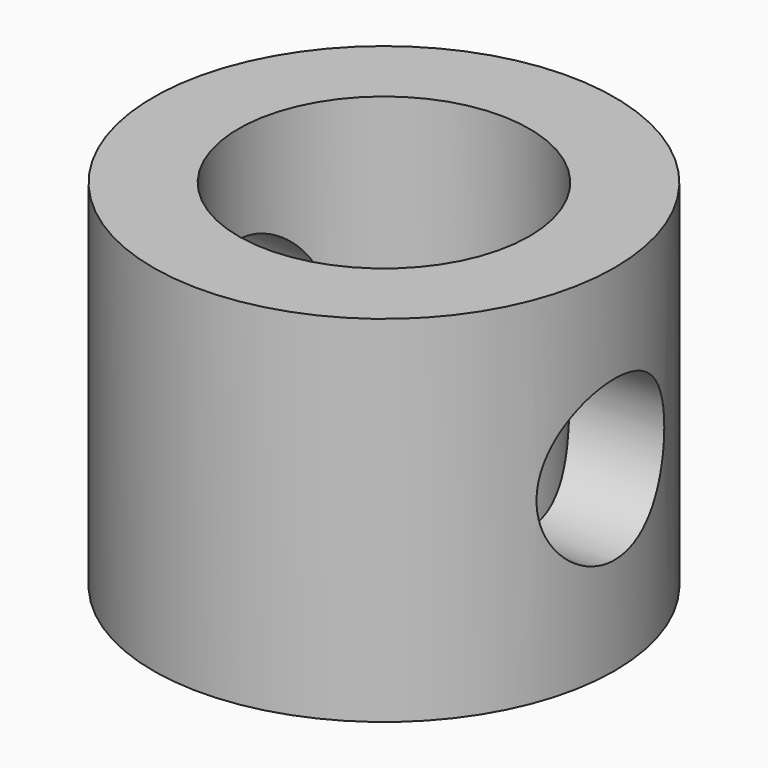
from build123d import *

# Parameters (mm, degrees)
F0_R     = 6.5
F1_DEPTH = 10
F2_R     = 4.1
F3_DEPTH = 10
F4_R     = 2.25
F5_DEPTH = 12.5


with BuildPart() as f1:
    # F0 (on Top) → F1 (new body)
    with BuildSketch(Plane.XY):
        Circle(F0_R)
    extrude(amount=F1_DEPTH)

    # F2 (on face) → F3 (cut)
    with BuildSketch(Plane.XY.offset(10)):
        Circle(F2_R)
    extrude(amount=-F3_DEPTH, mode=Mode.SUBTRACT)

    # F4 (on Right) → F5 (cut, symmetric)
    with BuildSketch(Plane.YZ):
        with Locations((0, 5)):
            Circle(F4_R)
    extrude(amount=F5_DEPTH, both=True, mode=Mode.SUBTRACT)


solid = f1.part
